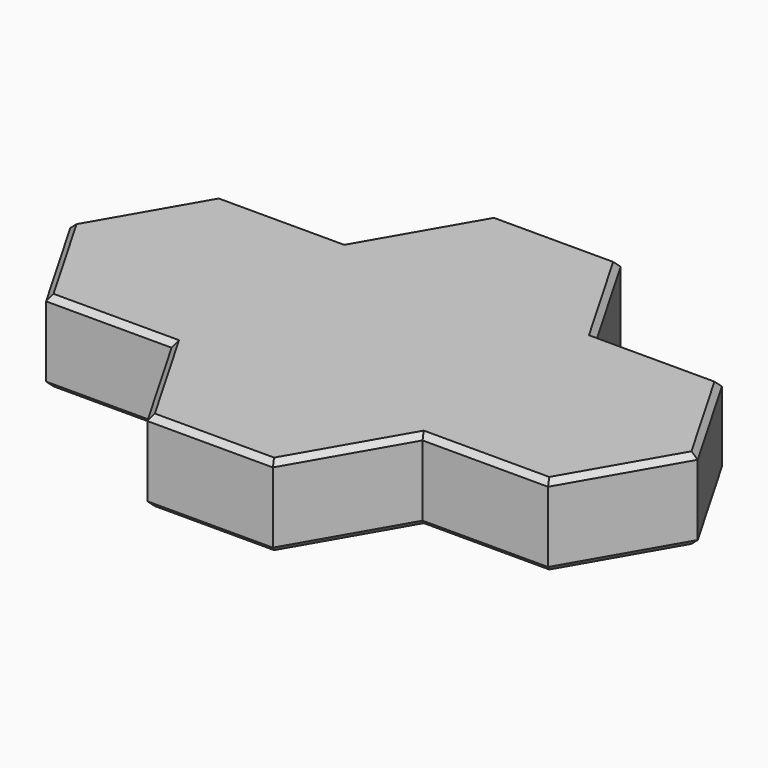
from build123d import *

# Parameters (mm, degrees)
PAD_DEPTH       = 3
SKETCH001_R     = 2.125
POCKET_DEPTH    = 2.15
CHAMFER_SIZE    = 0.2
CHAMFER001_SIZE = 0.2


with BuildPart() as part:
    # Sketch → Pad (new body)
    with BuildSketch(Plane.XY):
        Polygon((2.309401, 4), (-2.309401, 4), (-4.618802, 0), (-2.309401, -4), (2.309401, -4), (4.618802, -8), (9.237604, -8), (11.547005, -4), (16.165808, -4), (18.475209, 0), (16.165808, 4), (11.547005, 4), (9.237604, 8), (4.618802, 8), align=None)
    extrude(amount=PAD_DEPTH)

    # Sketch001 → Pocket (cut)
    with BuildSketch(Plane.XY):
        Circle(SKETCH001_R)
    extrude(amount=POCKET_DEPTH, mode=Mode.SUBTRACT)

    # Chamfer
    chamfer_edges = [part.edges().sort_by_distance(p)[0] for p in [
        (0, 4, 3),
        (-3.464102, 2, 3),
        (-3.464102, -2, 3),
        (0, -4, 3),
        (3.464102, -6, 3),
        (6.928203, -8, 3),
        (10.392305, -6, 3),
        (13.856406, -4, 3),
        (17.320508, -2, 3),
        (17.320508, 2, 3),
        (13.856406, 4, 3),
        (10.392305, 6, 3),
        (6.928203, 8, 3),
        (3.464102, 6, 3),
    ]]
    chamfer(chamfer_edges, length=CHAMFER_SIZE)

    # Chamfer001
    chamfer001_edges = [part.edges().sort_by_distance(p)[0] for p in [
        (0, 4, 0),
        (3.464102, 6, 0),
        (-3.464102, 2, 0),
        (6.928203, 8, 0),
        (-3.464102, -2, 0),
        (10.392305, 6, 0),
        (0, -4, 0),
        (13.856406, 4, 0),
        (3.464102, -6, 0),
        (17.320508, 2, 0),
        (6.928203, -8, 0),
        (17.320508, -2, 0),
        (10.392305, -6, 0),
        (13.856406, -4, 0),
        (-2.125, 0, 0),
    ]]
    chamfer(chamfer001_edges, length=CHAMFER001_SIZE)


solid = part.part
